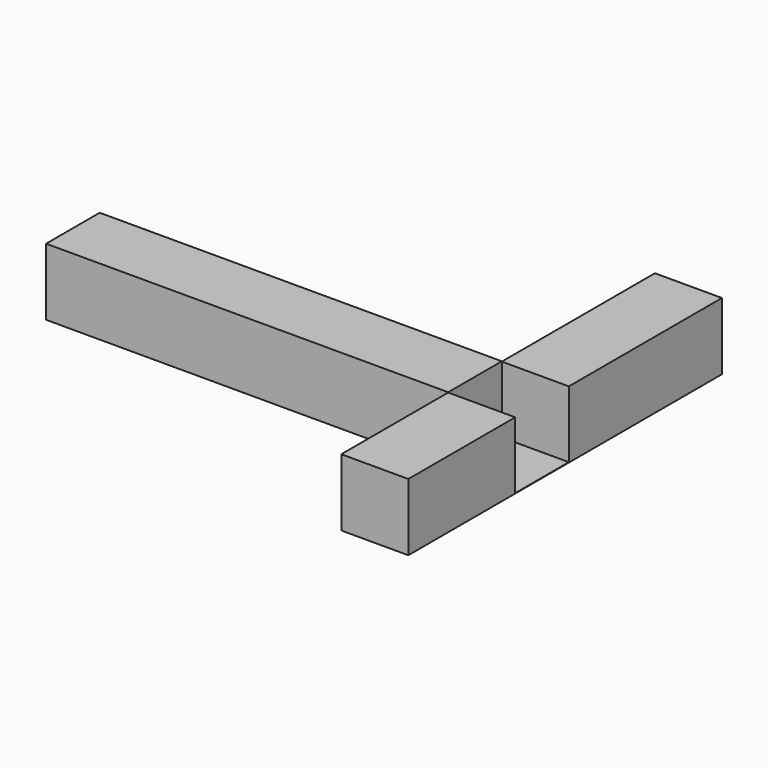
from build123d import *

# Parameters (mm, degrees)
F0_W     = 152.4
F0_H     = 25.4
F1_DEPTH = 25.4
F4_DEPTH = 25.4


with BuildPart() as f1:
    # F0 (on Top) → F1 (new body)
    with BuildSketch(Plane.XY):
        with Locations((76.2, -12.7)):
            Rectangle(F0_W, F0_H)
    extrude(amount=F1_DEPTH)


with BuildPart() as f4:
    # F3 (on face) → F4 (new body)
    with BuildSketch(Plane.YZ.offset(152.4)):
        Polygon((-76.033365, -0.159065), (72.53392, -0.159065), (72.53392, 25.291432), (0, 25.291432), (0, 0), (-25.4, 0), (-25.4, 25.291432), (-76.033365, 25.291432), align=None)
    extrude(amount=F4_DEPTH)


solid = Compound([f1.part, f4.part])
